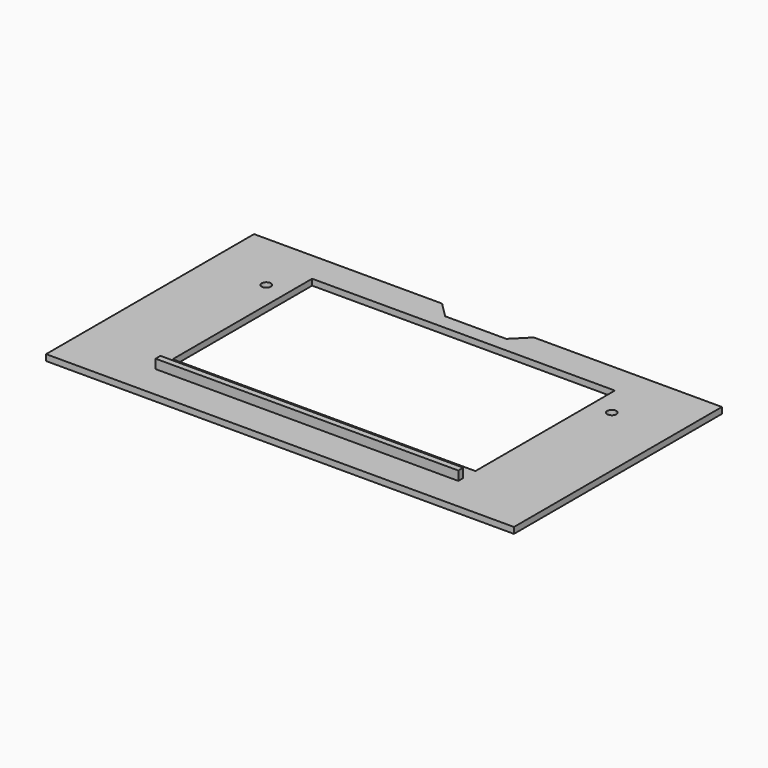
from build123d import *

# Parameters (mm, degrees)
F0_R     = 1.5
F0_W     = 99
F0_H     = 57
F1_DEPTH = 2
F2_W     = 99
F2_H     = 2
F3_DEPTH = 3


with BuildPart() as f1:
    # F0 (on Top) → F1 (new body)
    with BuildSketch(Plane.XY):
        Polygon((-15, 42.5), (-76.5, 42.5), (-76.5, -42.5), (76.5, -42.5), (76.5, 42.5), (15, 42.5), (10, 37.5), (-10, 37.5), align=None)
        with Locations((-56.5, 22.5)):
            Circle(F0_R, mode=Mode.SUBTRACT)
        with Locations((0, 4)):
            Rectangle(F0_W, F0_H, mode=Mode.SUBTRACT)
        with Locations((56.5, 22.5)):
            Circle(F0_R, mode=Mode.SUBTRACT)
    extrude(amount=-F1_DEPTH)

    # F2 (on face) → F3 (join)
    with BuildSketch(Plane.XY):
        with Locations((0, -30.5)):
            Rectangle(F2_W, F2_H)
    extrude(amount=F3_DEPTH)


solid = f1.part
